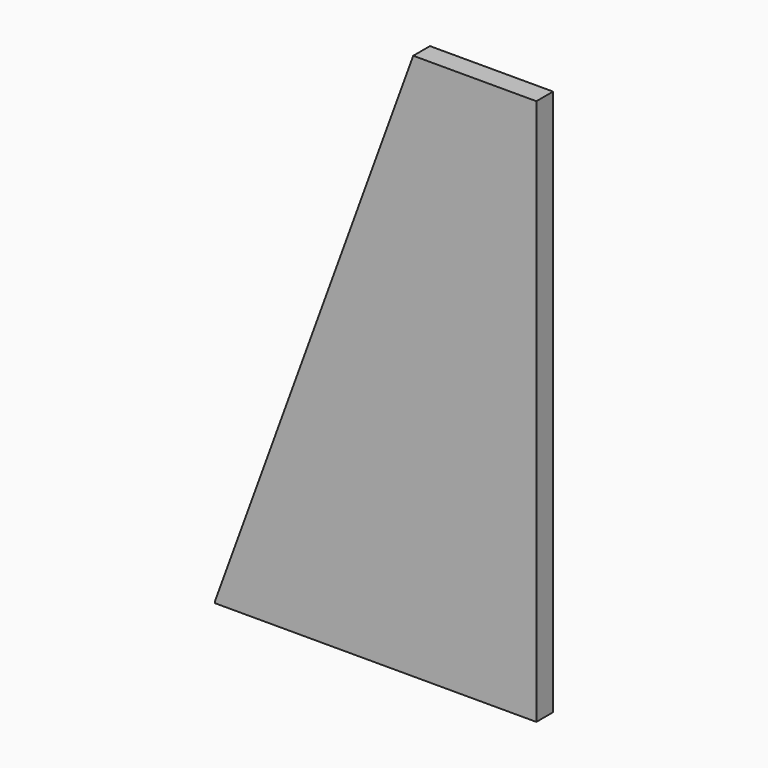
from build123d import *

# Parameters (mm, degrees)
PAD_DEPTH = 6.5


with BuildPart() as part:
    # Sketch → Pad (new body, symmetric)
    with BuildSketch(Plane.XZ):
        Polygon((0, 0), (200, 0), (200, 340), (123.385909, 340), (0, 1), align=None)
    extrude(amount=PAD_DEPTH, both=True)


solid = part.part
